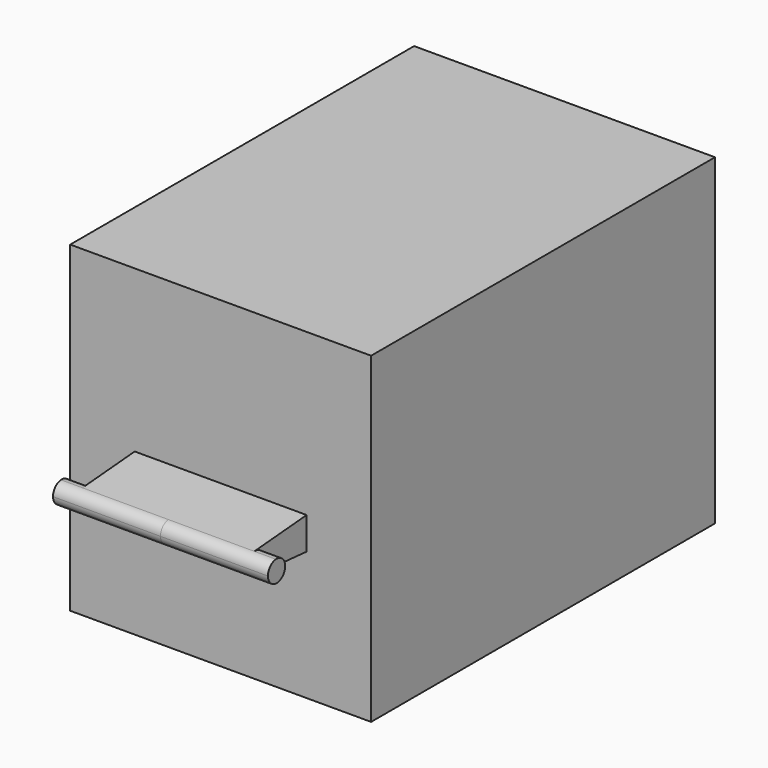
from build123d import *

# Parameters (mm, degrees)
F0_W          = 355.6
F0_H          = 508
F1_DEPTH      = 381
F4_DEPTH      = 101.6
F4_DEPTH_BACK = 101.6
F5_DEPTH      = 127
F5_DEPTH_BACK = 127


with BuildPart() as f1:
    # F0 (on Top) → F1 (new body)
    with BuildSketch(Plane.XY):
        with Locations((177.8, 254)):
            Rectangle(F0_W, F0_H)
    extrude(amount=F1_DEPTH)

    # F3 (on mid) → F4 (join, two sides)
    with BuildSketch(Plane(origin=(177.8, 0, 0), x_dir=(0, -1, 0), z_dir=(-1, 0, 0))) as f4_sk:
        with BuildLine():
            ThreePointArc((77.2475148298, 158.7932740141), (63.5, 171.45), (77.2475148298, 184.1067259859))
            Line((77.2475148298, 184.1067259859), (0, 190.5))
            Line((0, 190.5), (0, 152.4))
            Line((0, 152.4), (77.2475148298, 158.7932740141))
        make_face()
    extrude(amount=F4_DEPTH)
    extrude(f4_sk.sketch, amount=-F4_DEPTH_BACK)

    # F3 (on mid) → F5 (join, two sides)
    with BuildSketch(Plane(origin=(177.8, 0, 0), x_dir=(0, -1, 0), z_dir=(-1, 0, 0))) as f5_sk:
        with BuildLine():
            ThreePointArc((77.2475148298, 158.7932740141), (85.5432713312, 162.8480652856), (88.9, 171.45))
            ThreePointArc((88.9, 171.45), (85.5432713312, 180.0519347144), (77.2475148298, 184.1067259859))
            ThreePointArc((77.2475148298, 184.1067259859), (63.5, 171.45), (77.2475148298, 158.7932740141))
        make_face()
    extrude(amount=F5_DEPTH)
    extrude(f5_sk.sketch, amount=-F5_DEPTH_BACK)


solid = f1.part
